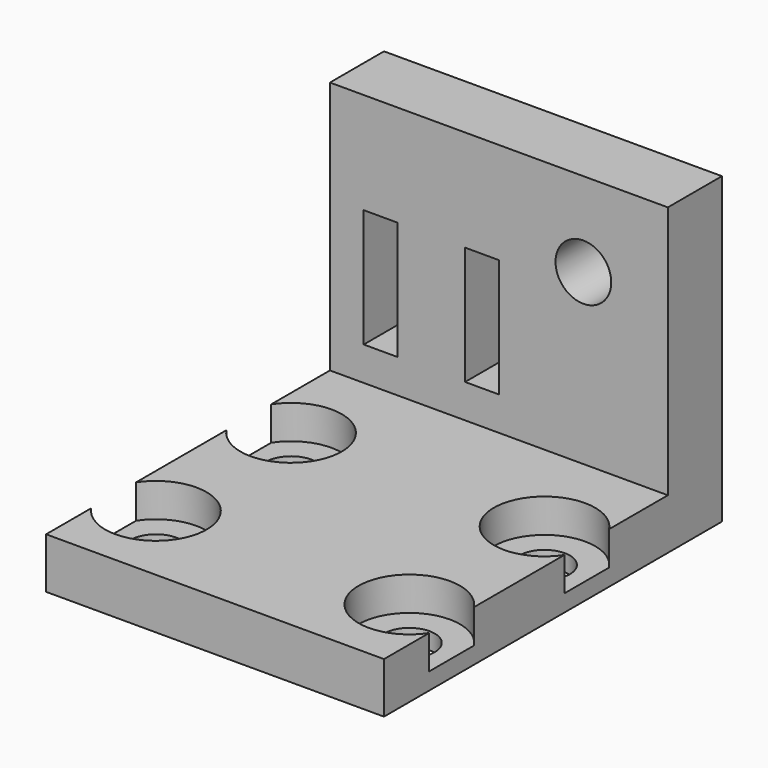
from build123d import *

# Parameters (mm, degrees)
SKETCH067_W     = 20
SKETCH067_H     = 25
SKETCH067_R     = 1.5
PAD024_DEPTH    = 3
SKETCH068_R     = 3
POCKET043_DEPTH = 2
SKETCH069_W     = 20
SKETCH069_H     = 4
PAD025_DEPTH    = 15
SKETCH085_R     = 1.65
SKETCH085_W     = 2
SKETCH085_H     = 7
POCKET052_DEPTH = 5


with BuildPart() as part:
    # Sketch067 → Pad024 (new body)
    with BuildSketch(Plane.XY):
        with Locations((-45, 2.5)):
            Rectangle(SKETCH067_W, SKETCH067_H)
        with Locations((-52.5, 5)):
            Circle(SKETCH067_R, mode=Mode.SUBTRACT)
        with Locations((-37.5, 5)):
            Circle(SKETCH067_R, mode=Mode.SUBTRACT)
        with Locations((-37.5, -5)):
            Circle(SKETCH067_R, mode=Mode.SUBTRACT)
        with Locations((-52.5, -5)):
            Circle(SKETCH067_R, mode=Mode.SUBTRACT)
    extrude(amount=PAD024_DEPTH)

    # Sketch068 (on Face10 of Pad024) → Pocket043 (cut)
    with BuildSketch(Plane.XY.offset(3)):
        with Locations((-52.5, 5)):
            Circle(SKETCH068_R)
        with Locations((-37.5, 5)):
            Circle(SKETCH068_R)
        with Locations((-37.5, -5)):
            Circle(SKETCH068_R)
        with Locations((-52.5, -5)):
            Circle(SKETCH068_R)
    extrude(amount=-POCKET043_DEPTH, mode=Mode.SUBTRACT)

    # Sketch069 (on Face5 of Pocket043) → Pad025 (join)
    with BuildSketch(Plane.XY.offset(3)):
        with Locations((-45, 13)):
            Rectangle(SKETCH069_W, SKETCH069_H)
    extrude(amount=PAD025_DEPTH)

    # Sketch085 (on Face25 of Pad025) → Pocket052 (cut)
    with BuildSketch(Plane.XZ.offset(-11)):
        with Locations((-40, 13)):
            Circle(SKETCH085_R)
        with Locations((-52, 8.5)):
            Rectangle(SKETCH085_W, SKETCH085_H)
        with Locations((-46, 8.5)):
            Rectangle(SKETCH085_W, SKETCH085_H)
    extrude(amount=-POCKET052_DEPTH, mode=Mode.SUBTRACT)


with BuildPart() as part_1:
    # Body008 placement: moved
    add(part.part.moved(Location((0, 0, 121))))


solid = part_1.part
